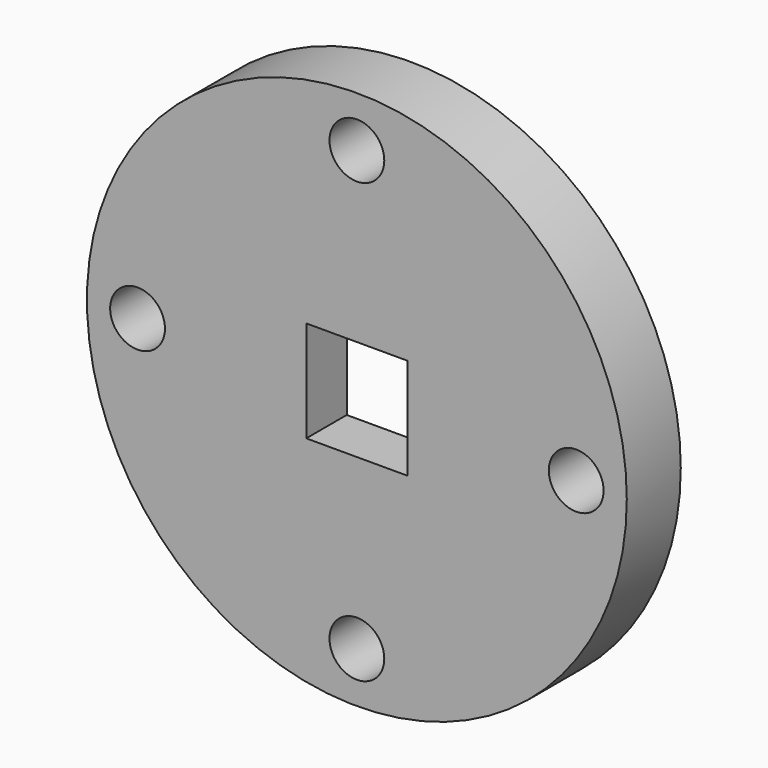
from build123d import *

# Parameters (mm, degrees)
F0_R     = 50.8
F0_R_2   = 5.1562
F0_W     = 19.05
F0_H     = 19.05
F1_DEPTH = 12.7
F2_R     = 25.4
F3_DEPTH = 3.175


with BuildPart() as f1:
    # F0 (on Front) → F1 (new body)
    with BuildSketch(Plane.XZ):
        Circle(F0_R)
        with Locations((0, -41.275)):
            Circle(F0_R_2, mode=Mode.SUBTRACT)
        with Locations((-41.275, 0)):
            Circle(F0_R_2, mode=Mode.SUBTRACT)
        Rectangle(F0_W, F0_H, mode=Mode.SUBTRACT)
        with Locations((41.275, 0)):
            Circle(F0_R_2, mode=Mode.SUBTRACT)
        with Locations((0, 41.275)):
            Circle(F0_R_2, mode=Mode.SUBTRACT)
    extrude(amount=F1_DEPTH)

    # F2 (on Front) → F3 (cut)
    with BuildSketch(Plane.XZ):
        Circle(F2_R)
    extrude(amount=F3_DEPTH, mode=Mode.SUBTRACT)


solid = f1.part
